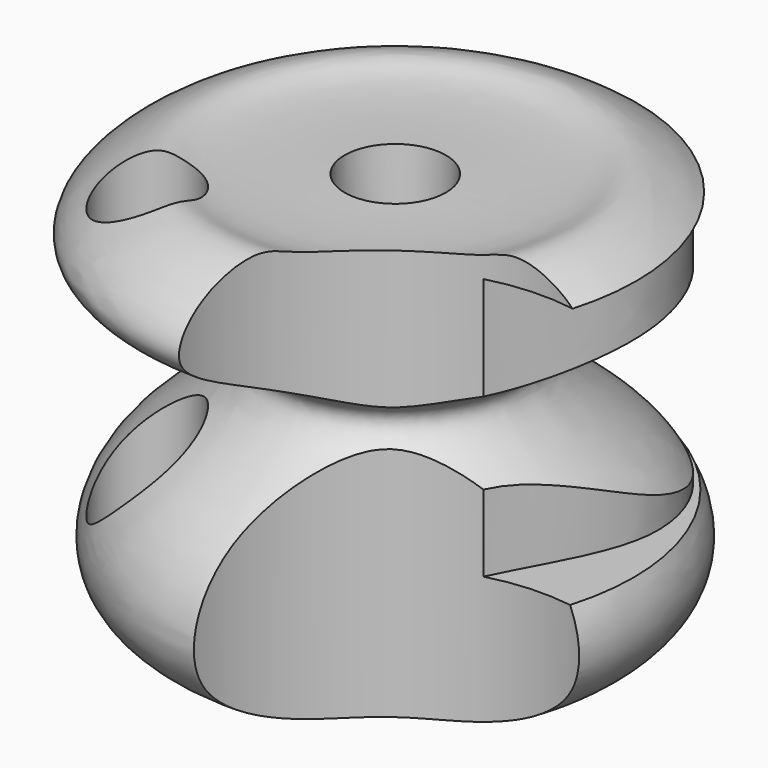
from build123d import *

# Parameters (mm, degrees)
F3_DEPTH = 44.9205040932
F4_R     = 69.1820456881
F4_R_2   = 16.3087815123
F5_DEPTH = 139.5226651803


with BuildPart() as f1:
    # F0 (on Front) → F1 (revolve)
    with BuildSketch(Plane.XZ):
        with BuildLine():
            add(Edge.make_bspline(
                [(17.3664876952, 50.3448539216), (32.9205670296, 49.9973943345), (55.9460058489, 50.1452008605), (64.8535230404, 57.8264245738), (117.7196859726, 24.5195611895), (12.3884986635, 2.8937697335), (80.2787516893, -28.9803189964), (94.3470426108, -76.729872387), (23.6085666691, -103.8195677539), (26.7430806887, -59.7612021412), (28.3517539501, -37.1505767107)],
                knots=[0.0381138025, 0.0381138025, 0.0381138025, 0.0381138025, 0.1432228252, 0.2127633947, 0.325034822, 0.4727174062, 0.6020681723, 0.7266148188, 0.8597008921, 1, 1, 1, 1], degree=3))
            Line((17.3664876952, 50.3448539216), (14.1758769751, -18.5752883554))
            Line((14.1758769751, -18.5752883554), (28.3517539501, -37.1505767107))
        make_face()
    revolve(axis=Axis((0, 0, 25.4187993705), (0, 0, -1)))

    # F2 (on Top) → F3 (cut, symmetric)
    with BuildSketch(Plane.XY):
        with BuildLine():
            add(Edge.make_bspline(
                [(-103.6689355969, 46.7079728842), (-93.8372350314, 33.7424604527), (-19.6672054407, 33.4715392364), (42.2478541191, 83.5527447806), (87.8324984613, 18.1277308202), (22.179231443, -47.7080918685), (93.4798734034, -88.0937236678), (131.6138713971, 7.0032223803), (81.5646429464, 128.3184532664), (-39.1251750836, 163.137247992), (-89.7981225494, 97.9996289957), (-111.399897007, 56.9031446758), (-103.6689355969, 46.7079728842)],
                knots=[0, 0, 0, 0, 0.1030418578, 0.2024821094, 0.285951209, 0.3856439705, 0.4629557885, 0.5657466999, 0.6970881455, 0.8163019271, 0.9189750927, 1, 1, 1, 1], degree=3))
        make_face()
    extrude(amount=F3_DEPTH, both=True, mode=Mode.SUBTRACT)

    # F4 (on Top) → F5 (cut, symmetric)
    with BuildSketch(Plane.XY):
        with Locations((68.1721717119, -91.4880931377)):
            Circle(F4_R)
        with Locations((-46.1490303278, -48.6524105072)):
            Circle(F4_R_2)
        with Locations((68.1721717119, -91.4880931377)):
            Circle(F4_R)
        with Locations((-46.1490303278, -48.6524105072)):
            Circle(F4_R_2)
    extrude(amount=F5_DEPTH, both=True, mode=Mode.SUBTRACT)


solid = f1.part
